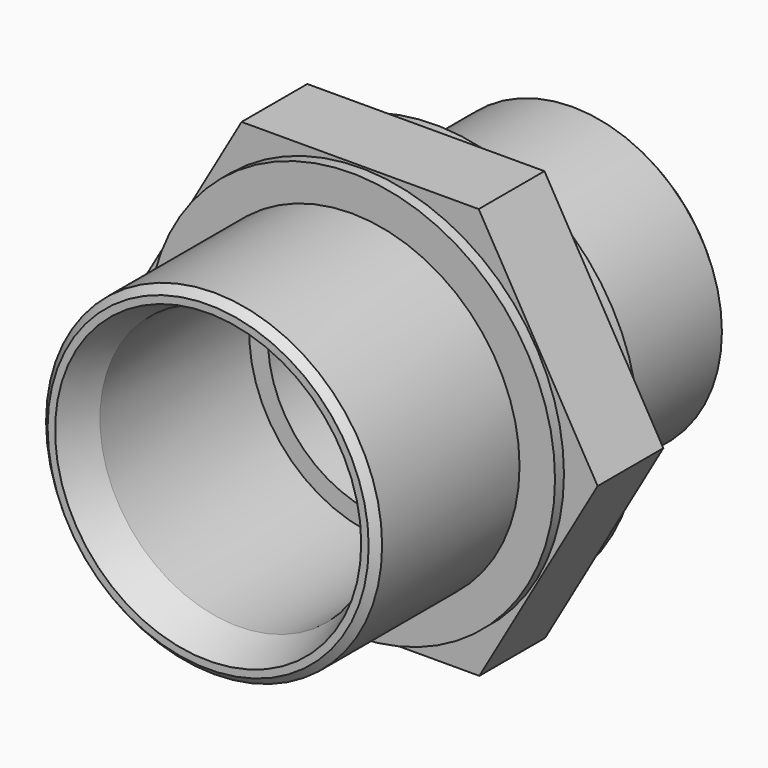
from build123d import *

# Parameters (mm, degrees)
F1_DEPTH    = 5.5
F2_R        = 27.25
F3_DEPTH    = 7
F4_R        = 22.5
F5_DEPTH    = 24
F6_R        = 20
F7_DEPTH    = 24
F8_R        = 16
F9_DEPTH    = 62.001
F10_R       = 18.5
F11_DEPTH   = 30
F12_SIZE    = 1
F13_SIZE2   = 2
F13_SIZE    = 5
F13_2_SIZE2 = 2
F13_2_SIZE  = 5


with BuildPart() as f1:
    # F0 (on Front) → F1 (new body, symmetric)
    with BuildSketch(Plane.XZ):
        Polygon((31.7542252363, 0.0501296029), (15.8336991085, 27.5250305336), (-15.9205261278, 27.4749009306), (-31.7542252363, -0.0501296029), (-15.8336991085, -27.5250305336), (15.9205261278, -27.4749009306), align=None)
    extrude(amount=F1_DEPTH, both=True)

    # F2 (on Front) → F3 (join, symmetric)
    with BuildSketch(Plane.XZ):
        Circle(F2_R)
    extrude(amount=F3_DEPTH, both=True)

    # F4 (on face) → F5 (join)
    with BuildSketch(Plane.XZ.offset(7)):
        Circle(F4_R)
        Circle(F4_R)
    extrude(amount=F5_DEPTH)

    # F6 (on face) → F7 (join)
    with BuildSketch(Plane(origin=(0, 7, 0), x_dir=(-1, 0, 0), z_dir=(0, 1, 0))):
        Circle(F6_R)
    extrude(amount=F7_DEPTH)

    # F8 (on face) → F9 (cut, through all)
    with BuildSketch(Plane.XZ.offset(31)):
        Circle(F8_R)
    extrude(amount=-F9_DEPTH, mode=Mode.SUBTRACT)

    # F10 (on face) → F11 (cut)
    with BuildSketch(Plane.XZ.offset(31)):
        Circle(F10_R)
    extrude(amount=-F11_DEPTH, mode=Mode.SUBTRACT)

    # F12
    f12_edges = [f1.edges().sort_by_distance(p)[0] for p in [
        (-22.5, -31, 0),
        (20, 31, 0),
    ]]
    chamfer(f12_edges, length=F12_SIZE)

    # F13
    f13_edges = [f1.edges().sort_by_distance(p)[0] for p in [
        (-18.5, -31, 0),
    ]]
    f13_side = f1.faces().sort_by_distance((-18.5, -16, 0))[0]
    chamfer(f13_edges, length=F13_SIZE, length2=F13_SIZE2, reference=f13_side)

    # F13#2
    f13_2_edges = [f1.edges().sort_by_distance(p)[0] for p in [
        (-16, 31, 0),
    ]]
    f13_2_side = f1.faces().sort_by_distance((-16, 15, 0))[0]
    chamfer(f13_2_edges, length=F13_2_SIZE, length2=F13_2_SIZE2, reference=f13_2_side)


solid = f1.part
